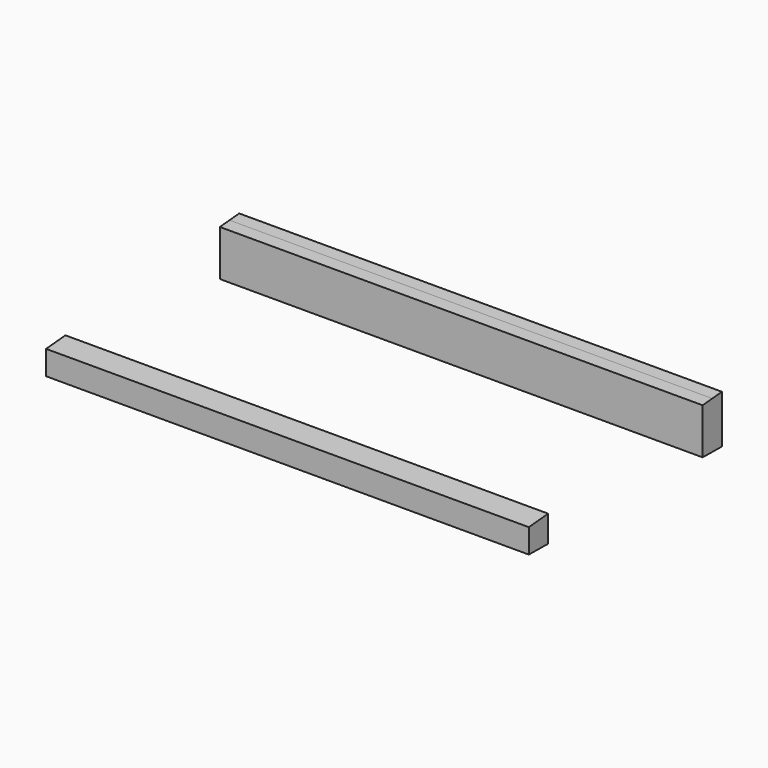
from build123d import *

# Parameters (mm, degrees)
F1_DEPTH = 400


with BuildPart() as f1:
    # F0 (on Right) → F1 (new body)
    with BuildSketch(Plane.YZ):
        Polygon((-81.346756, 11.766749), (-101.345189, 10.017113), (-101.345189, -9.982887), (-81.346756, -10.233251), align=None)
        Polygon((98.63914, -12.486525), (98.63914, 27.513475), (88.639923, 26.638656), (78.640707, 25.763838), (78.640707, -12.236162), (88.639923, -12.361344), align=None)
    extrude(amount=F1_DEPTH)


solid = f1.part
